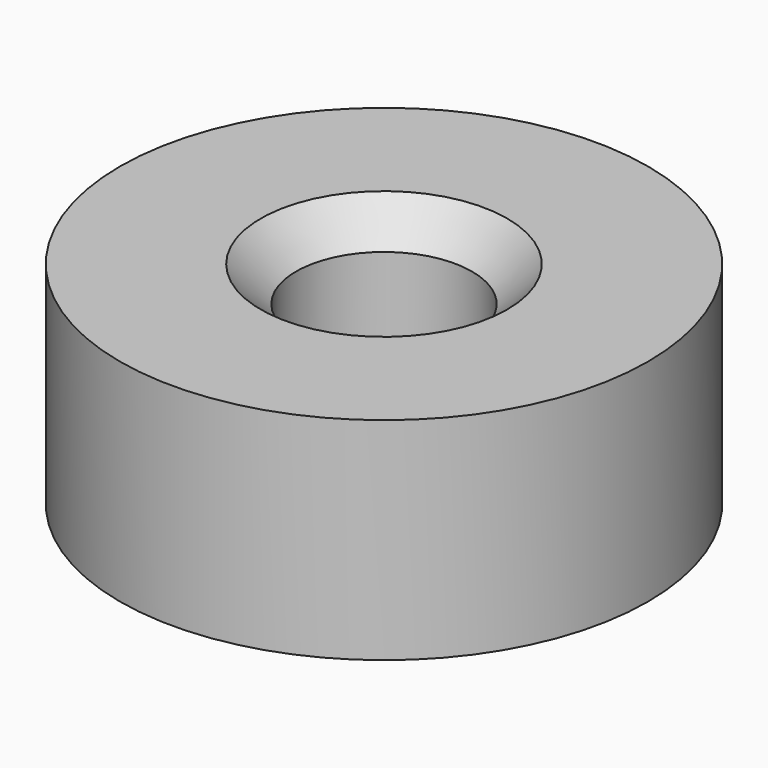
from build123d import *

# Parameters (mm, degrees)
SKETCH_R     = 7.5
SKETCH_R_2   = 2.5
PAD_DEPTH    = 6
CHAMFER_SIZE = 1


with BuildPart() as part:
    # Sketch → Pad (new body)
    with BuildSketch(Plane.XY):
        Circle(SKETCH_R)
        Circle(SKETCH_R_2, mode=Mode.SUBTRACT)
    extrude(amount=PAD_DEPTH)

    # Chamfer
    chamfer_edges = [part.edges().sort_by_distance(p)[0] for p in [
        (-2.5, 0, 6),
    ]]
    chamfer(chamfer_edges, length=CHAMFER_SIZE)


solid = part.part
